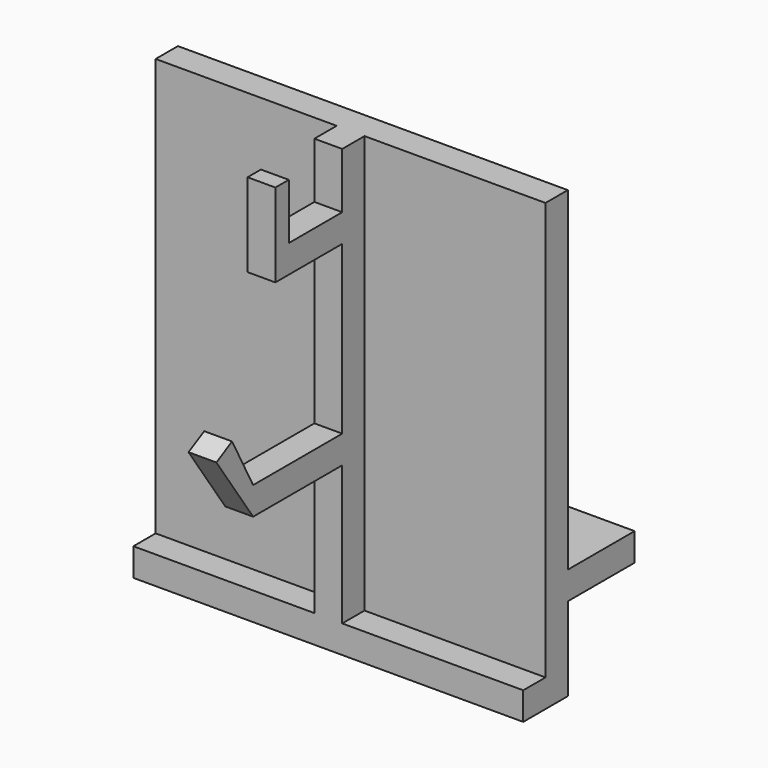
from build123d import *

# Parameters (mm, degrees)
F0_W      = 25.4
F0_H      = 6.35
F0_W_2    = 19.05
F1_DEPTH  = 6.35
F3_DEPTH  = 6.35
F4_W      = 31.75
F4_H      = 6.35
F5_DEPTH  = 19.05
F6_W      = 41.275
F6_H      = 6.35
F7_DEPTH  = 6.35
F8_W      = 41.275
F8_H      = 6.361497178
F9_DEPTH  = 6.35
F10_W     = 6.35
F10_H     = 3.81
F11_DEPTH = 12.7


with BuildPart() as f1:
    # F0 (on Right) → F1 (new body)
    with BuildSketch(Plane.YZ):
        Polygon((-28.575, -37.7865453147), (-28.575, -31.4365453147), (-34.5734524408, -20.2424143384), (-39.0511048314, -22.6417953147), align=None)
        with Locations((-15.875, -34.6115453147)):
            Rectangle(F0_W, F0_H)
        Polygon((3.175, 25.7134546853), (-3.175, 25.7134546853), (-3.175, 13.0134546853), (-3.175, 6.6634546853), (-3.175, -31.4365453147), (-3.175, -37.7865453147), (-3.175, -75.8865453147), (3.175, -75.8865453147), align=None)
        with Locations((-12.7, 9.8384546853)):
            Rectangle(F0_W_2, F0_H)
    extrude(amount=F1_DEPTH)

    # F2 (on face) → F3 (join)
    with BuildSketch(Plane(origin=(0, 3.175, 0), x_dir=(-1, 0, 0), z_dir=(0, 1, 0))):
        Polygon((41.275, 25.7134546853), (-3.175, 25.7134546853), (-47.625, 25.7134546853), (-47.625, -75.8865453147), (-6.35, -75.8865453147), (0, -75.8865453147), (41.275, -75.8865453147), align=None)
    extrude(amount=F3_DEPTH)

    # F4 (on face) → F5 (join)
    with BuildSketch(Plane(origin=(0, 9.525, 0), x_dir=(-1, 0, 0), z_dir=(0, 1, 0))):
        with Locations((-31.75, -53.6615453147)):
            Rectangle(F4_W, F4_H)
        with Locations((25.4, -53.6615453147)):
            Rectangle(F4_W, F4_H)
    extrude(amount=F5_DEPTH)

    # F6 (on face) → F7 (join)
    with BuildSketch(Plane.XZ.offset(-3.175)):
        with Locations((26.9875, -72.7115453147)):
            Rectangle(F6_W, F6_H)
    extrude(amount=F7_DEPTH)

    # F8 (on face) → F9 (join)
    with BuildSketch(Plane.XZ.offset(-3.175)):
        with Locations((-20.6375, -72.7057967257)):
            Rectangle(F8_W, F8_H)
    extrude(amount=F9_DEPTH)

    # F10 (on face) → F11 (join)
    with BuildSketch(Plane.XY.offset(13.0134546853)):
        with Locations((3.175, -20.32)):
            Rectangle(F10_W, F10_H)
    extrude(amount=F11_DEPTH)


solid = f1.part
